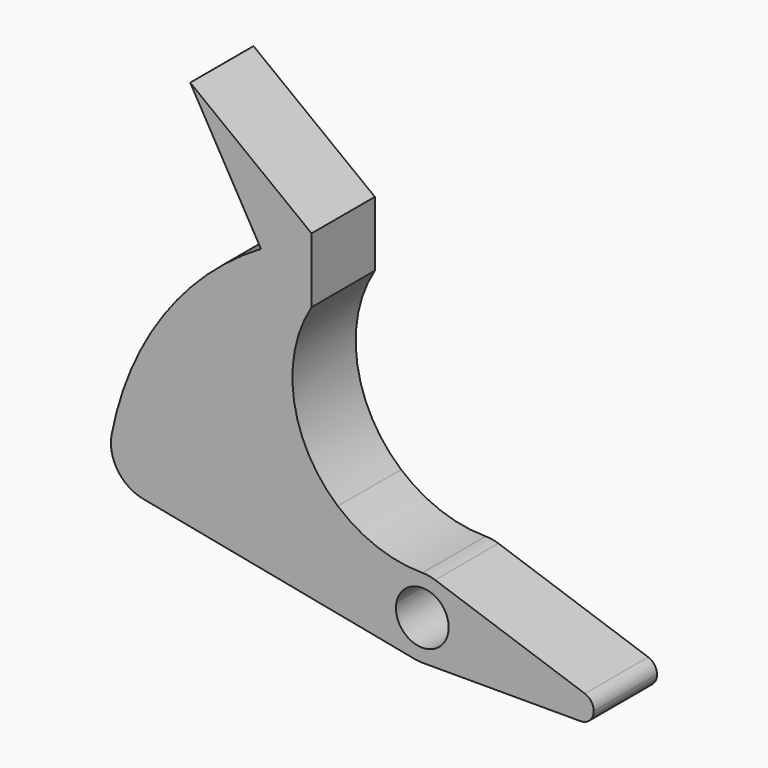
from build123d import *

# Parameters (mm, degrees)
F1_DEPTH = 9.525


with BuildPart() as f1:
    # F0 (on Front) → F1 (new body)
    with BuildSketch(Plane.XZ):
        with BuildLine():
            ThreePointArc((-19.4267452123, 32.7751669783), (-16.4455856876, 34.3679023421), (-13.335, 35.6901635608))
            Line((-13.335, 35.6901635608), (-13.335, 36.3994789012))
            Line((-13.335, 36.3994789012), (-27.94, 47.625))
            Line((-27.94, 47.625), (-19.4267452123, 32.7751669783))
        make_face()
        with BuildLine():
            ThreePointArc((-27.9646509033, 6.35), (-32.2714890818, 11.0906517014), (-37.4024581703, 7.2571428827))
            Line((-37.4024581752, 7.2571428571), (-28.0518436314, 5.4428571429))
            ThreePointArc((-28.0518436314, 5.4428571429), (-27.9864992006, 5.8943381914), (-27.9646509033, 6.35))
        make_face()
        with BuildLine():
            Line((-28.0518436314, 5.4428571429), (-37.4024581752, 7.2571428571))
            ThreePointArc((-37.4024581703, 7.2571428827), (-36.6745392643, 3.6855054179), (-33.6342938017, 1.6746927361))
            ThreePointArc((-33.6342938017, 1.6746927361), (-30.0626563104, 2.4026116464), (-28.0518436314, 5.4428571429))
        make_face()
        with BuildLine():
            Line((-13.335, 28.575), (-13.335, 35.6901635608))
            ThreePointArc((-13.335, 35.6901635608), (-16.4455856876, 34.3679023421), (-19.4267452123, 32.7751669783))
            ThreePointArc((-19.4267452123, 32.7751669783), (-31.1477443439, 21.9414680979), (-37.4024581703, 7.2571428827))
            ThreePointArc((-37.4024581703, 7.2571428827), (-32.2714890818, 11.0906517014), (-27.9646509033, 6.35))
            ThreePointArc((-27.9646509033, 6.35), (-27.9864992006, 5.8943381914), (-28.0518436314, 5.4428571429))
            Line((-28.0518436314, 5.4428571429), (-4.6753072719, 0.9071428571))
            ThreePointArc((-4.6753072719, 0.9071428571), (-3.0299454298, 3.6743485059), (-4.75e-08, 4.7625))
            ThreePointArc((-4.75e-08, 4.7625), (-5.4222239137, 5.7324902921), (-10.1718790261, 8.5221442375))
            ThreePointArc((-10.1718790261, 8.5221442375), (-15.4490322171, 17.9656323654), (-13.335, 28.575))
        make_face()
        with BuildLine():
            Line((-4.6753072719, 0.9071428571), (-28.0518436314, 5.4428571429))
            ThreePointArc((-28.0518436314, 5.4428571429), (-30.0626563104, 2.4026116464), (-33.6342938017, 1.6746927361))
            Line((-33.6342938017, 1.6746927361), (-0.9071428571, -4.6753072719))
            ThreePointArc((-0.9071428571, -4.6753072719), (-3.9473883419, -2.6644946103), (-4.6753072719, 0.9071428571))
        make_face()
        with BuildLine():
            ThreePointArc((-0.9071428571, -4.6753072719), (-0.4556617994, -4.7406517036), (1.84e-08, -4.7625))
            ThreePointArc((1.84e-08, -4.7625), (3.3675960519, -3.3675960389), (4.7625, 0))
            ThreePointArc((4.7625, 0), (3.8754056881, 2.7681468535), (1.544594697, 4.5050675324))
            ThreePointArc((1.544594697, 4.5050675324), (0.782950207, 4.6977010573), (-4.75e-08, 4.7625))
            ThreePointArc((-4.75e-08, 4.7625), (-3.0299454298, 3.6743485059), (-4.6753072719, 0.9071428571))
            ThreePointArc((-4.6753072719, 0.9071428571), (-3.9473883419, -2.6644946103), (-0.9071428571, -4.6753072719))
        make_face()
        with BuildLine():
            ThreePointArc((3.175, 0), (-0.303774539, -3.1604344685), (-3.1168715146, 0.6047619048))
            ThreePointArc((-3.1168715146, 0.6047619048), (0.303774539, 3.1604344685), (3.175, 0))
        make_face(mode=Mode.SUBTRACT)
        with BuildLine():
            Line((1.84e-08, -4.7625), (19.05, -4.7625))
            ThreePointArc((19.05, -4.7625), (17.4840996489, -2.9140165896), (19.5648648994, -1.6733108227))
            Line((19.5648648994, -1.6733108227), (1.544594697, 4.5050675324))
            ThreePointArc((1.544594697, 4.5050675324), (3.8754056881, 2.7681468535), (4.7625, 0))
            ThreePointArc((4.7625, 0), (3.3675960519, -3.3675960389), (1.84e-08, -4.7625))
        make_face()
        with BuildLine():
            ThreePointArc((19.5648648994, -1.6733108227), (17.4840996489, -2.9140165896), (19.05, -4.7625))
            ThreePointArc((19.05, -4.7625), (20.1725320151, -4.2975320151), (20.6375, -3.175))
            ThreePointArc((20.6375, -3.175), (20.3418018962, -2.2522843823), (19.5648648994, -1.6733108227))
        make_face()
    extrude(amount=F1_DEPTH)


solid = f1.part
